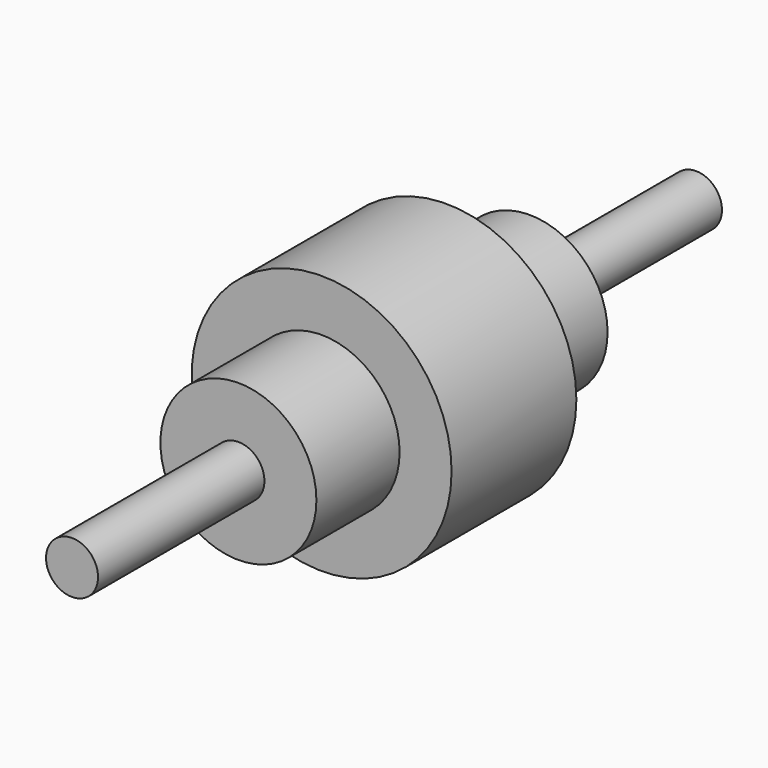
from build123d import *

# Parameters (mm, degrees)
F0_R     = 50
F1_DEPTH = 60
F2_R     = 30
F3_DEPTH = 40
F4_R     = 10
F5_DEPTH = 80
F6_R     = 30
F7_DEPTH = 40
F8_R     = 10
F9_DEPTH = 80


with BuildPart() as f1:
    # F0 (on Front) → F1 (new body)
    with BuildSketch(Plane.XZ):
        Circle(F0_R)
    extrude(amount=F1_DEPTH)

    # F2 (on face) → F3 (join)
    with BuildSketch(Plane.XZ):
        Circle(F2_R)
    extrude(amount=-F3_DEPTH)

    # F4 (on face) → F5 (join)
    with BuildSketch(Plane(origin=(0, 40, 0), x_dir=(-1, 0, 0), z_dir=(0, 1, 0))):
        with Locations((0, 2.316055)):
            Circle(F4_R)
    extrude(amount=F5_DEPTH)

    # F6 (on face) → F7 (join)
    with BuildSketch(Plane.XZ.offset(60)):
        Circle(F6_R)
    extrude(amount=F7_DEPTH)

    # F8 (on face) → F9 (join)
    with BuildSketch(Plane.XZ.offset(100)):
        Circle(F8_R)
    extrude(amount=F9_DEPTH)


solid = f1.part
